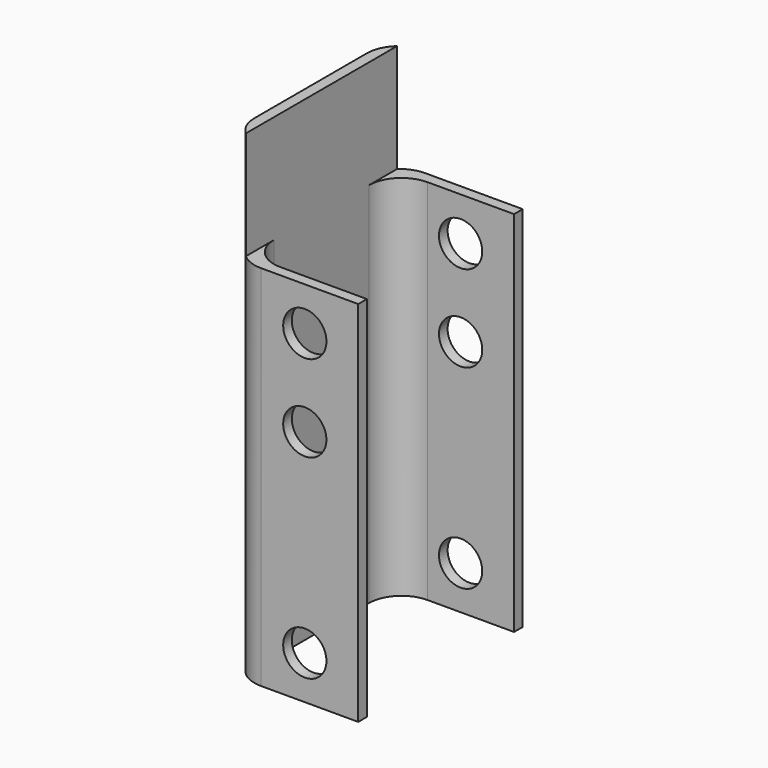
from build123d import *

# Parameters (mm, degrees)
F0_W      = 38.1
F0_H      = 60.325
F1_DEPTH  = 139.7
F2_W      = 34.925
F2_H      = 53.975
F3_DEPTH  = 762
F4_W      = 34.925
F4_H      = 31.75
F5_DEPTH  = 85.344
F6_R      = 9.525
F8_D      = 12.7
F8_DEPTH  = 127
F10_D     = 12.7
F10_DEPTH = 127


with BuildPart() as f1:
    # F0 (on Top) → F1 (new body)
    with BuildSketch(Plane.XY):
        with Locations((19.05, 30.1625)):
            Rectangle(F0_W, F0_H)
    extrude(amount=F1_DEPTH)

    # F2 (on face) → F3 (cut)
    with BuildSketch(Plane.XY.offset(139.7)):
        with Locations((20.6375, 30.1625)):
            Rectangle(F2_W, F2_H)
    extrude(amount=-F3_DEPTH, mode=Mode.SUBTRACT)

    # F4 (on face) → F5 (cut)
    with BuildSketch(Plane.XZ):
        with Locations((20.6375, 123.825)):
            Rectangle(F4_W, F4_H)
    extrude(amount=-F5_DEPTH, mode=Mode.SUBTRACT)

    # F6
    f6_edges = [f1.edges().sort_by_distance(p)[0] for p in [
        (3.175, 57.15, 53.975),
        (3.175, 3.175, 53.975),
        (0, 0, 69.85),
        (0, 60.325, 69.85),
    ]]
    fillet(f6_edges, radius=F6_R)

    # F8
    with Locations(Plane.XZ):
        with Locations((22.419682, 95.25), (22.419682, 12.7)):
            Hole(F8_D / 2, depth=F8_DEPTH)

    # F10
    with Locations(Plane.XZ):
        with Locations((22.419682, 69.85)):
            Hole(F10_D / 2, depth=F10_DEPTH)


solid = f1.part
